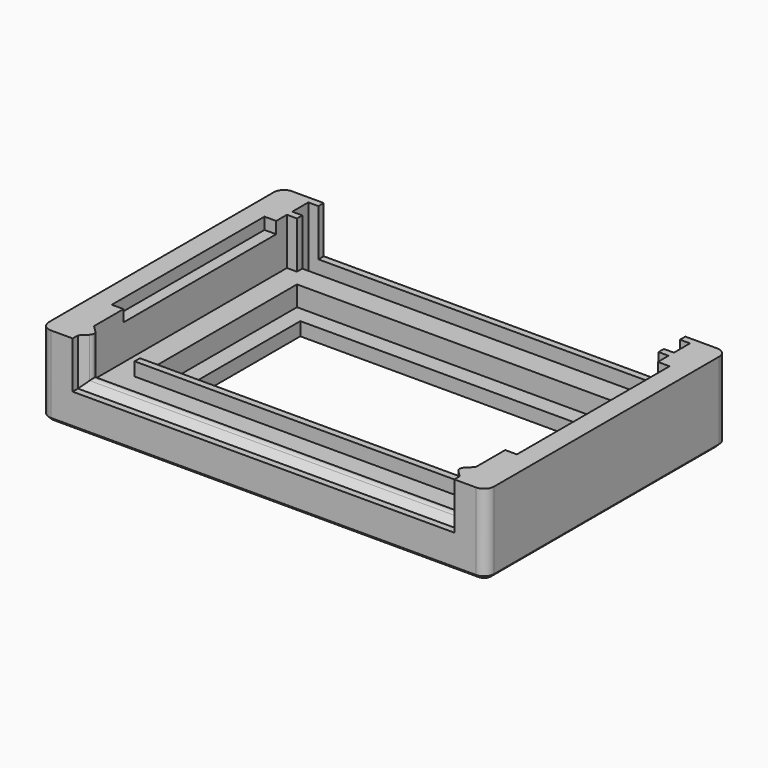
from build123d import *

# Parameters (mm, degrees)
SKETCH_W             = 133
SKETCH_H             = 90
PAD_DEPTH            = 10
PAD001_DEPTH         = 24
PAD002_DEPTH         = 133
SKETCH003_W          = 101
SKETCH003_H          = 2
PAD003_DEPTH         = 14
SKETCH004_W          = 100
SKETCH004_H          = 55
POCKET_DEPTH         = 6
SKETCH005_W          = 90
SKETCH005_H          = 45
POCKET001_DEPTH      = 24.001
FILLET_R             = 3
FILLET001_R          = 3
CHAMFER_SIZE         = 1
SKETCH006_W          = 6
SKETCH006_H          = 6
POCKET002_DEPTH      = 57
POCKET002_DEPTH_BACK = -57
SKETCH007_W          = 3.5
SKETCH007_H          = 57
POCKET003_DEPTH      = 3.5


with BuildPart() as part:
    # Sketch → Pad (new body)
    with BuildSketch(Plane.XY):
        with Locations((0, 5)):
            Rectangle(SKETCH_W, SKETCH_H)
    extrude(amount=PAD_DEPTH)

    # Sketch001 → Pad001 (join)
    with BuildSketch(Plane.XY):
        with BuildLine():
            Line((-66.5, -40), (-66.5, 50))
            Line((-66.5, 50), (-54, 50))
            Line((-54, 50), (-54, 48))
            Line((-54, 48), (-57, 48))
            Line((-57, 48), (-57, 42))
            Line((-57, 42), (-54, 42))
            Line((-54, 42), (-54, 40))
            Line((-54, 40), (-57, 40))
            Line((-57, 40), (-57, -32))
            Line((-57, -32), (-55.06066, -33.93934))
            ThreePointArc((-55.06066, -36.06066), (-54.62132, -35), (-55.06066, -33.93934))
            Line((-55.06066, -36.06066), (-57, -38))
            Line((-57, -38), (-57, -40))
            Line((-57, -40), (-66.5, -40))
        make_face()
    pad001 = extrude(amount=PAD001_DEPTH)

    # Mirrored: Pad001 across Sketch001 V_Axis
    add(pad001.mirror(Plane(origin=(0, 0, 0), x_dir=(0, 0, 1), z_dir=(1, 0, 0))))

    # Sketch002 (on Face10 of Mirrored) → Pad002 (join)
    with BuildSketch(Plane(origin=(-66.5, 0, 0), x_dir=(0, -1, 0), z_dir=(-1, 0, 0))):
        with BuildLine():
            Line((32, 10), (33.93934, 11.93934))
            ThreePointArc((36.06066, 11.93934), (35, 12.37868), (33.93934, 11.93934))
            Line((36.06066, 11.93934), (38, 10))
            Line((38, 10), (32, 10))
        make_face()
    extrude(amount=-PAD002_DEPTH)

    # Sketch003 → Pad003 (join)
    with BuildSketch(Plane.XY):
        with Locations((0, -24)):
            Rectangle(SKETCH003_W, SKETCH003_H)
    extrude(amount=PAD003_DEPTH)

    # Sketch004 (on Face32 of Pad003) → Pocket (cut)
    with BuildSketch(Plane.XY.offset(10)):
        with Locations((0, 7.5)):
            Rectangle(SKETCH004_W, SKETCH004_H)
    extrude(amount=-POCKET_DEPTH, mode=Mode.SUBTRACT)

    # Sketch005 → Pocket001 (cut, through all)
    with BuildSketch(Plane.XY):
        with Locations((0, 7.5)):
            Rectangle(SKETCH005_W, SKETCH005_H)
    extrude(amount=POCKET001_DEPTH, mode=Mode.SUBTRACT)

    # Fillet
    fillet_edges = [part.edges().sort_by_distance(p)[0] for p in [
        (66.5, 50, 5),
        (66.5, 50, 17),
        (66.5, -40, 5),
        (66.5, -40, 17),
    ]]
    fillet(fillet_edges, radius=FILLET_R)

    # Fillet001
    fillet001_edges = [part.edges().sort_by_distance(p)[0] for p in [
        (-66.5, -40, 17),
        (-66.5, -40, 5),
        (-66.5, 50, 17),
        (-66.5, 50, 5),
    ]]
    fillet(fillet001_edges, radius=FILLET001_R)

    # Chamfer
    chamfer_edges = [part.edges().sort_by_distance(p)[0] for p in [
        (0, 50, 0),
        (-58.75, 50, 0),
        (-65.62132, 49.12132, 0),
        (-66.5, 5, 0),
        (-65.62132, -39.12132, 0),
        (-60.25, -40, 0),
        (0, -40, 0),
        (60.25, -40, 0),
        (65.62132, -39.12132, 0),
        (66.5, 5, 0),
        (65.62132, 49.12132, 0),
        (58.75, 50, 0),
    ]]
    chamfer(chamfer_edges, length=CHAMFER_SIZE)

    # Sketch006 → Pocket002 (cut, two sides)
    with BuildSketch(Plane.YZ) as pocket002_sk:
        with Locations((45, 8)):
            Rectangle(SKETCH006_W, SKETCH006_H)
    extrude(amount=-POCKET002_DEPTH, mode=Mode.SUBTRACT)
    extrude(pocket002_sk.sketch, amount=-POCKET002_DEPTH_BACK, mode=Mode.SUBTRACT)

    # Sketch007 (on Face59 of Pocket002) → Pocket003 (cut)
    with BuildSketch(Plane.XY.offset(24)):
        with Locations((58.75, 7.5)):
            Rectangle(SKETCH007_W, SKETCH007_H)
        with Locations((-58.75, 7.5)):
            Rectangle(SKETCH007_W, SKETCH007_H)
    extrude(amount=-POCKET003_DEPTH, mode=Mode.SUBTRACT)


solid = part.part
